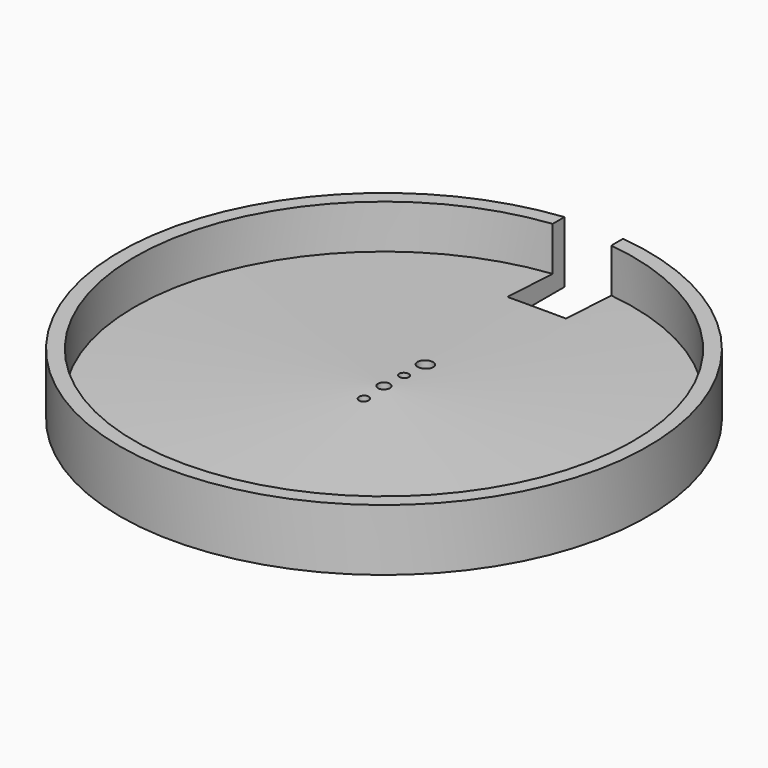
from build123d import *

# Parameters (mm, degrees)
F2_R       = 2.05
F3_DEPTH   = 20
F4_W       = 20
F4_H       = 25
F5_DEPTH   = 25
F6_R       = 1.93
F7_DEPTH   = 5.8
F8_R       = 2.605
F9_DEPTH   = 25
F10_R      = 4.35
F10_R_2    = 1.65
F11_DEPTH  = 4
F11_FACE_R = 1.65
F13_DEPTH  = 25
F14_ANGLE  = -90
F15_ANGLE  = -270


with BuildPart() as f1:
    # F0 (on Front) → F1 (revolve)
    with BuildSketch(Plane.XZ):
        Polygon((-90, 0), (0, 0), (0, 10), (-85, 6), (-85, 21), (-90, 21), align=None)
    revolve(axis=Axis((0, 0, -12.121966), (0, 0, -1)))

    # F2 (on face) → F3 (cut)
    with BuildSketch(Plane(origin=(0, 0, 0), x_dir=(1, 0, 0), z_dir=(0, 0, -1))):
        Circle(F2_R)
    extrude(amount=-F3_DEPTH, mode=Mode.SUBTRACT)

    # F4 (on face) → F5 (cut)
    with BuildSketch(Plane(origin=(0, 0, 0), x_dir=(1, 0, 0), z_dir=(0, 0, -1))):
        with Locations((0, -77.625006)):
            Rectangle(F4_W, F4_H)
    extrude(amount=-F5_DEPTH, mode=Mode.SUBTRACT)

    # F6 (on face) → F7 (cut)
    with BuildSketch(Plane(origin=(0, 0, 0), x_dir=(1, 0, 0), z_dir=(0, 0, -1))):
        with Locations((-49.477956, -67.757965)):
            Circle(F6_R)
        with Locations((-50.155689, -45.322918)):
            Circle(F6_R)
        with Locations((-60.987717, -57.61691)):
            Circle(F6_R)
        with Locations((-38.645928, -55.463973)):
            Circle(F6_R)
    extrude(amount=-F7_DEPTH, mode=Mode.SUBTRACT)

    # F8 (on face) → F9 (cut)
    with BuildSketch(Plane(origin=(0, 0, 0), x_dir=(1, 0, 0), z_dir=(0, 0, -1))):
        with Locations((0, -17.655)):
            Circle(F8_R)
    extrude(amount=-F9_DEPTH, mode=Mode.SUBTRACT)

    # F10 (on face) → F11 (cut)
    with BuildSketch(Plane(origin=(0, 0, 0), x_dir=(1, 0, 0), z_dir=(0, 0, -1))):
        Circle(F10_R)
        with Locations((0, -8.56)):
            Circle(F10_R_2)
        with Locations((0, 8.56)):
            Circle(F10_R_2)
    extrude(amount=-F11_DEPTH, mode=Mode.SUBTRACT)

    # F11_face (on face) → F13 (cut)
    with BuildSketch(Plane(origin=(0, -8.56, 4), x_dir=(1, 0, 0), z_dir=(0, 0, -1))):
        Circle(F11_FACE_R)
        with Locations((0, -17.12)):
            Circle(F11_FACE_R)
    extrude(amount=-F13_DEPTH, mode=Mode.SUBTRACT)


with BuildPart() as f1_1:
    # F14: moved
    add(f1.part.rotate(Axis((-0.498306, 0, 0), (1, 0, 0)), F14_ANGLE))


with BuildPart() as f1_2:
    # F15: moved
    add(f1_1.part.rotate(Axis((-0.498306, 0, 0), (1, 0, 0)), F15_ANGLE))


solid = f1_2.part
